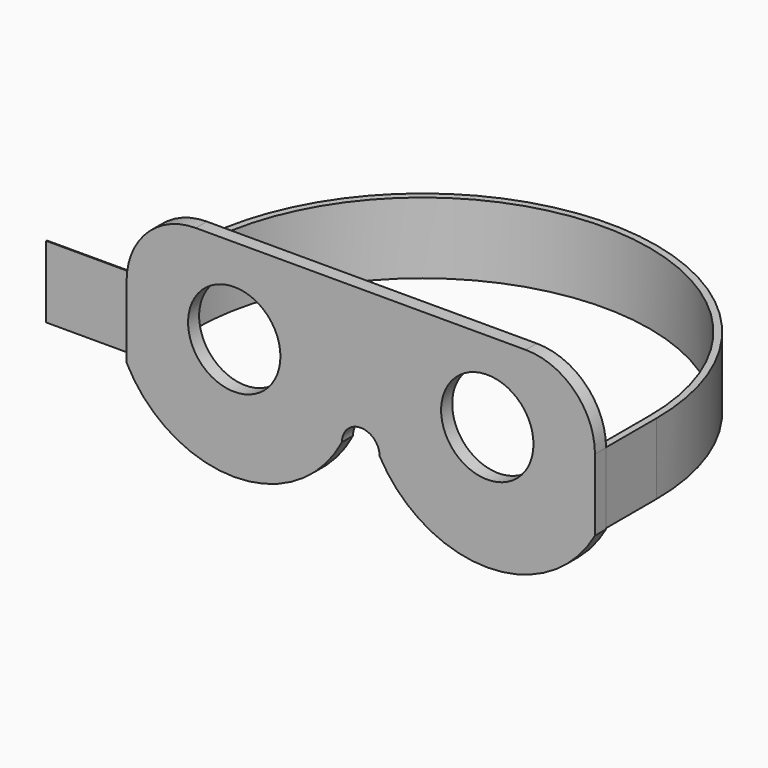
from build123d import *

# Parameters (mm, degrees)
F0_R     = 12.7
F1_DEPTH = 3.81
F2_R     = 19.05
F3_W     = 25.186133
F3_H     = 19.750299
F4_DEPTH = 0.254
F6_DEPTH = 19.558


with BuildPart() as f1:
    # F0 (on Front) → F1 (new body)
    with BuildSketch(Plane.XZ):
        with BuildLine():
            Line((61.806571, 12.610613), (-67.008797, 12.610613))
            Line((-67.008797, 12.610613), (-67.008797, -26.189686))
            ThreePointArc((-67.008797, -26.189686), (-37.397166, -44.235478), (-7.785536, -26.189686))
            ThreePointArc((-7.785536, -26.189686), (-2.601111, -21.005262), (2.583313, -26.189686))
            ThreePointArc((2.583313, -26.189686), (32.194942, -43.515437), (61.806571, -26.189686))
            Line((61.806571, -26.189686), (61.806571, 12.610613))
        make_face()
        with Locations((-37.397166, -10.917481)):
            Circle(F0_R, mode=Mode.SUBTRACT)
        with Locations((32.194942, -9.547783)):
            Circle(F0_R, mode=Mode.SUBTRACT)
    extrude(amount=F1_DEPTH)

    # F2
    f2_edges = [f1.edges().sort_by_distance(p)[0] for p in [
        (-67.008797, -1.905, 12.610613),
        (61.806571, -1.905, 12.610613),
    ]]
    fillet(f2_edges, radius=F2_R)


with BuildPart() as f4:
    # F3 (on face) → F4 (new body)
    with BuildSketch(Plane(origin=(0, 0, 0), x_dir=(-1, 0, 0), z_dir=(0, 1, 0))):
        with Locations((79.601864, -16.314536)):
            Rectangle(F3_W, F3_H)
    extrude(amount=F4_DEPTH)


with BuildPart() as f6:
    # F5 (on face) → F6 (new body)
    with BuildSketch(Plane.XY.offset(-6.439387)):
        with BuildLine():
            Line((-67.008797, 17.481778), (-67.008797, 0.254))
            Line((-67.008797, 0.254), (-65.120806, 0))
            Line((-65.120806, 0), (-65.120806, 17.481778))
            ThreePointArc((-65.120806, 17.481778), (-2.650738, 79.951846), (59.819331, 17.481778))
            Line((59.819331, 17.481778), (59.819331, 0.254))
            Line((59.819331, 0.254), (61.707322, 0))
            Line((61.707322, 0), (61.707322, 17.481778))
            ThreePointArc((61.707322, 17.481778), (-2.650738, 81.839837), (-67.008797, 17.481778))
        make_face()
    extrude(amount=-F6_DEPTH)


solid = Compound([f1.part, f4.part, f6.part])
